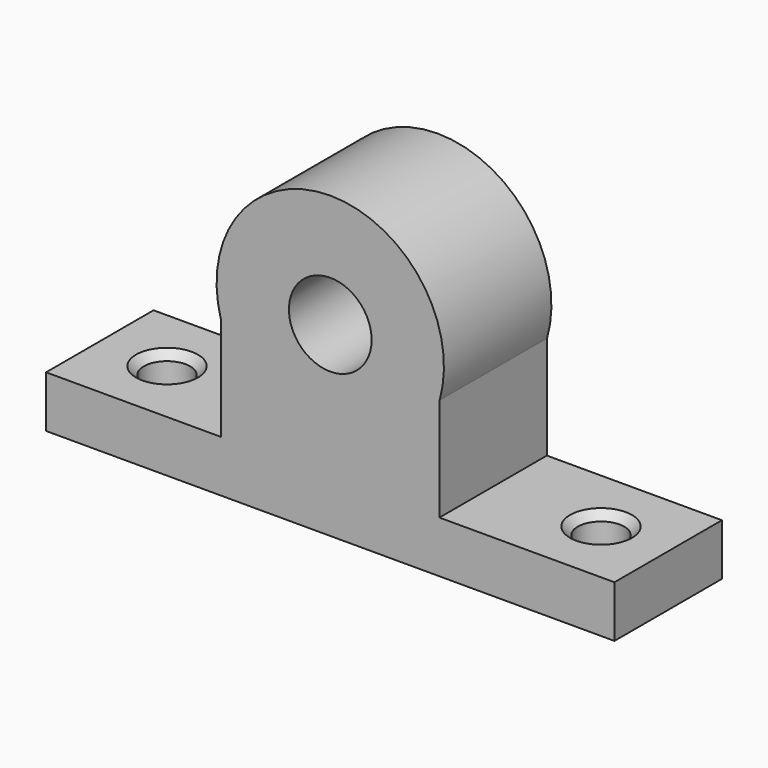
from build123d import *

# Parameters (mm, degrees)
F0_R           = 4
F1_DEPTH       = 13
F3_D           = 4.5
F3_DEPTH       = 5
F3_CSINK_D     = 6
F3_CSINK_ANGLE = 90


with BuildPart() as f1:
    # F0 (on Front) → F1 (new body)
    with BuildSketch(Plane.XZ):
        with BuildLine():
            Line((-61.972201, 31.603267), (-61.972201, 26.603267))
            Line((-61.972201, 26.603267), (-6.972201, 26.603267))
            Line((-6.972201, 26.603267), (-6.972201, 31.603267))
            Line((-6.972201, 31.603267), (-23.887811, 31.603267))
            Line((-23.887811, 31.603267), (-23.910946, 31.603267))
            ThreePointArc((-23.910946, 31.603267), (-23.899375, 31.612676), (-23.887811, 31.622096))
            Line((-23.887811, 31.622096), (-23.887811, 41.608154))
            ThreePointArc((-23.887811, 41.608154), (-34.472201, 55.603267), (-45.05659, 41.608154))
            Line((-45.05659, 41.608154), (-45.05659, 31.622096))
            ThreePointArc((-45.05659, 31.622096), (-45.045027, 31.612676), (-45.033455, 31.603267))
            Line((-45.033455, 31.603267), (-45.05659, 31.603267))
            Line((-45.05659, 31.603267), (-61.972201, 31.603267))
        make_face()
        with Locations((-34.472201, 44.603267)):
            Circle(F0_R, mode=Mode.SUBTRACT)
    extrude(amount=-F1_DEPTH)

    # F3
    with Locations(Plane.XY.offset(31.603267)):
        with Locations((-55.472201, 6.5), (-13.472201, 6.5)):
            CounterSinkHole(F3_D / 2, F3_CSINK_D / 2, depth=F3_DEPTH, counter_sink_angle=F3_CSINK_ANGLE)


solid = f1.part
